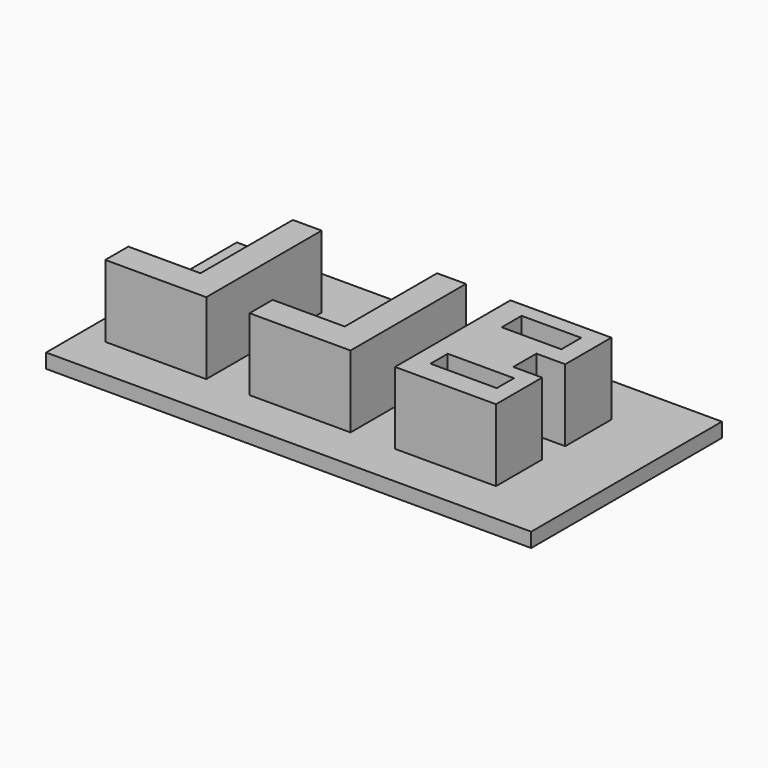
from build123d import *

# Parameters (mm, degrees)
F0_W     = 11.659021
F0_H     = 3.78918
F0_W_2   = 10.49312
F0_H_2   = 4.37213
F1_DEPTH = 12.7
F2_W     = 85.402291
F2_H     = 41.972458
F3_DEPTH = 2.54


with BuildPart() as f1:
    # F0 (on Top) → F1 (new body)
    with BuildSketch(Plane.XY):
        Polygon((9.077378, -12.7), (9.077378, 0), (9.077378, 12.7), (3.997378, 12.7), (3.997378, -7.62), (-8.702622, -7.62), (-8.702622, -12.7), align=None)
        Polygon((16.905574, 12.7), (16.905574, -12.7), (34.685574, -12.7), (34.685574, -2.54), (29.605574, -2.54), (29.605574, 2.54), (34.685574, 2.54), (34.685574, 12.7), align=None)
        with Locations((25.941311, -6.99541)):
            Rectangle(F0_W, F0_H, mode=Mode.SUBTRACT)
        with Locations((26.232787, 7.869836)):
            Rectangle(F0_W_2, F0_H_2, mode=Mode.SUBTRACT)
        Polygon((-34.102622, -12.7), (-16.322622, -12.7), (-16.322622, 12.7), (-21.402622, 12.7), (-21.402622, -7.62), (-34.102622, -7.62), align=None)
    extrude(amount=F1_DEPTH)


with BuildPart() as f3:
    # F2 (on Top) → F3 (new body)
    with BuildSketch(Plane.XY):
        with Locations((4.226392, 0.728687)):
            Rectangle(F2_W, F2_H)
    extrude(amount=-F3_DEPTH)


solid = Compound([f1.part, f3.part])
